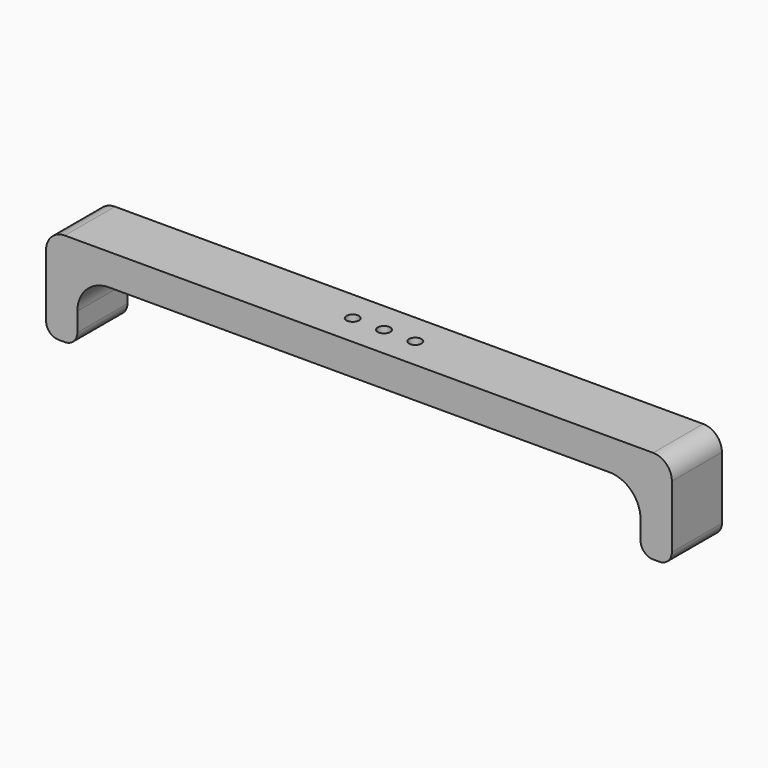
from build123d import *

# Parameters (mm, degrees)
F1_DEPTH = 10
F3_D     = 2


with BuildPart() as f1:
    # F0 (on Front) → F1 (new body)
    with BuildSketch(Plane.XZ):
        with BuildLine():
            ThreePointArc((-50, 2), (-49.414214, 0.585786), (-48, 0))
            Line((-48, 0), (-47, 0))
            ThreePointArc((-47, 0), (-45.585786, 0.585786), (-45, 2))
            Line((-45, 2), (-45, 5))
            ThreePointArc((-45, 5), (-43.535534, 8.535534), (-40, 10))
            Line((-40, 10), (0, 10))
            Line((0, 10), (40, 10))
            ThreePointArc((40, 10), (43.535534, 8.535534), (45, 5))
            Line((45, 5), (45, 2))
            ThreePointArc((45, 2), (45.585786, 0.585786), (47, 0))
            Line((47, 0), (48, 0))
            ThreePointArc((48, 0), (49.414214, 0.585786), (50, 2))
            Line((50, 2), (50, 12))
            ThreePointArc((50, 12), (49.12132, 14.12132), (47, 15))
            Line((47, 15), (0, 15))
            Line((0, 15), (-47, 15))
            ThreePointArc((-47, 15), (-49.12132, 14.12132), (-50, 12))
            Line((-50, 12), (-50, 2))
        make_face()
    extrude(amount=F1_DEPTH)

    # F3 (through all)
    with Locations(Plane.XY.offset(15)):
        with Locations((-5, -5), (5, -5), (0, -5)):
            Hole(F3_D / 2)


solid = f1.part
